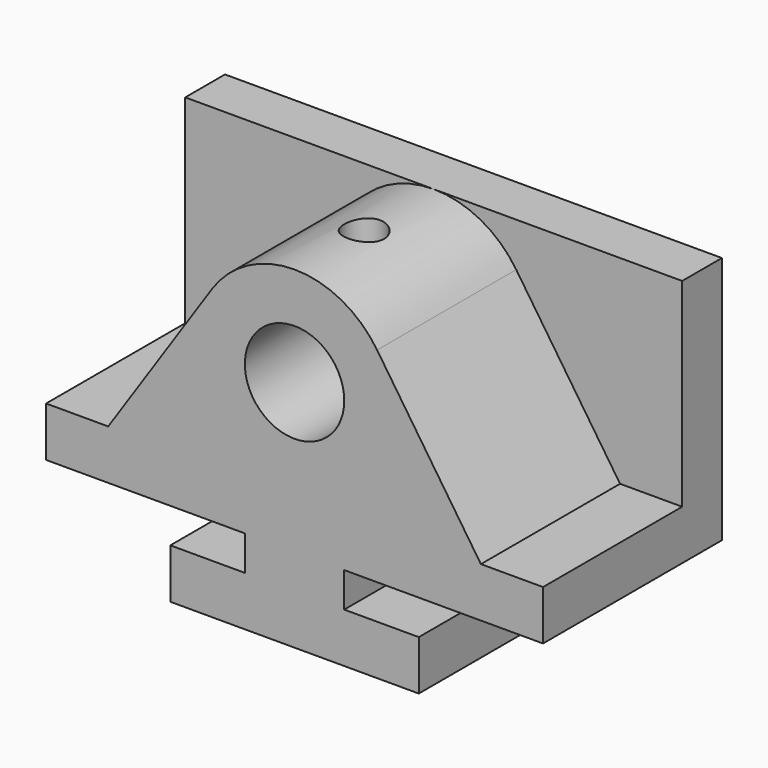
from build123d import *

# Parameters (mm, degrees)
F0_R     = 12.7
F1_DEPTH = 22.225
F2_W     = 12.7
F2_H     = 63.5
F3_DEPTH = 127
F4_R     = 5.08
F5_DEPTH = 13.7612578348


with BuildPart() as f1:
    # F0 (on Front) → F1 (new body, symmetric)
    with BuildSketch(Plane.XZ):
        with BuildLine():
            Line((-12.7, -21.59), (-31.75, -21.59))
            Line((-31.75, -21.59), (-31.75, -34.29))
            Line((-31.75, -34.29), (31.75, -34.29))
            Line((31.75, -34.29), (31.75, -21.59))
            Line((31.75, -21.59), (12.7, -21.59))
            Line((12.7, -21.59), (12.7, -12.7))
            Line((12.7, -12.7), (63.5, -12.7))
            Line((63.5, -12.7), (63.5, 0))
            Line((63.5, 0), (47.625, 0))
            Line((47.625, 0), (21.0934256055, 39.5501730104))
            ThreePointArc((21.0934256055, 39.5501730104), (0, 50.8), (-21.0934256055, 39.5501730104))
            Line((-21.0934256055, 39.5501730104), (-47.625, 0))
            Line((-47.625, 0), (-63.5, 0))
            Line((-63.5, 0), (-63.5, -12.7))
            Line((-63.5, -12.7), (-12.7, -12.7))
            Line((-12.7, -12.7), (-12.7, -21.59))
        make_face()
        with Locations((0, 25.4)):
            Circle(F0_R, mode=Mode.SUBTRACT)
    extrude(amount=F1_DEPTH, both=True)

    # F2 (on face) → F3 (join)
    with BuildSketch(Plane.YZ.offset(63.5)):
        with Locations((28.575, 19.05)):
            Rectangle(F2_W, F2_H)
    extrude(amount=-F3_DEPTH)

    # F4 (on face) → F5 (cut, through all)
    with BuildSketch(Plane.XY.offset(50.8)):
        Circle(F4_R)
    extrude(amount=-F5_DEPTH, mode=Mode.SUBTRACT)


solid = f1.part
